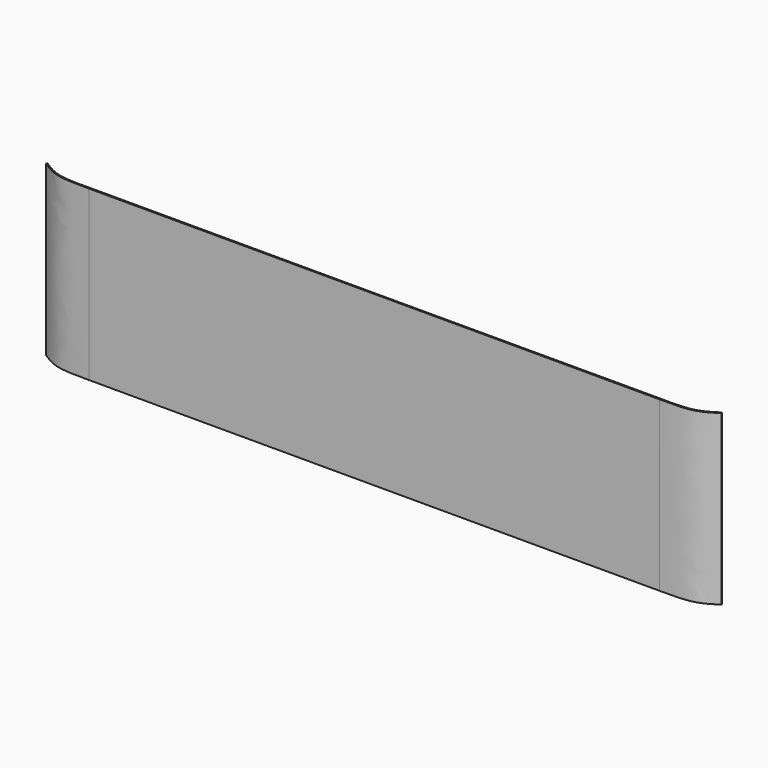
from build123d import *

# Parameters (mm, degrees)
F1_DEPTH = 20


with BuildPart() as f1:
    # F0 (on Top) → F1 (new body)
    with BuildSketch(Plane.XY):
        with BuildLine():
            Line((-33.8469743729, 0), (0, 0))
            Line((0, 0), (33.8469743729, 0))
            add(Edge.make_bspline(
                [(33.8469743729, 0), (35.2563162969, -0.016601589), (37.800654552, -0.0465730651), (39.3598447328, 0.9604632347), (40.0553792715, 1.4096890809)],
                knots=[0, 0, 0, 0, 0.553912956, 1, 1, 1, 1], degree=3))
            add(Edge.make_bspline(
                [(40.0553792715, 1.4096890809), (40.066256821, 1.4440817661), (40.087343386, 1.5107533627), (39.985798501, 1.5465043143), (39.9826057255, 1.5458606649)],
                knots=[0, 0, 0, 0, 0.4998145507, 0.9689105066, 0.9689105066, 0.9689105066, 0.9689105066], degree=3))
            add(Edge.make_bspline(
                [(39.9826057255, 1.5458606649), (39.2971681349, 1.0989842657), (37.7606115643, 0.0972141893), (35.2473649905, 0.1447905481), (33.8552445173, 0.1711437217)],
                knots=[0, 0, 0, 0, 0.4460867916, 1, 1, 1, 1], degree=3))
            Line((33.8552445173, 0.1711437217), (0, 0.1447905481))
            Line((0, 0.1447905481), (-33.8552445173, 0.1711437217))
            add(Edge.make_bspline(
                [(-39.9826057255, 1.5458606649), (-39.2971681349, 1.0989842657), (-37.7606115643, 0.0972141893), (-35.2473649905, 0.1447905481), (-33.8552445173, 0.1711437217)],
                knots=[0, 0, 0, 0, 0.4460867916, 1, 1, 1, 1], degree=3))
            add(Edge.make_bspline(
                [(-40.0553792715, 1.4096890809), (-40.066256821, 1.4440817661), (-40.087343386, 1.5107533627), (-39.985798501, 1.5465043143), (-39.9826057255, 1.5458606649)],
                knots=[0, 0, 0, 0, 0.4998145507, 0.9689105066, 0.9689105066, 0.9689105066, 0.9689105066], degree=3))
            add(Edge.make_bspline(
                [(-33.8469743729, 0), (-35.2563162969, -0.016601589), (-37.800654552, -0.0465730651), (-39.3598447328, 0.9604632347), (-40.0553792715, 1.4096890809)],
                knots=[0, 0, 0, 0, 0.553912956, 1, 1, 1, 1], degree=3))
        make_face()
    extrude(amount=F1_DEPTH)


solid = f1.part
